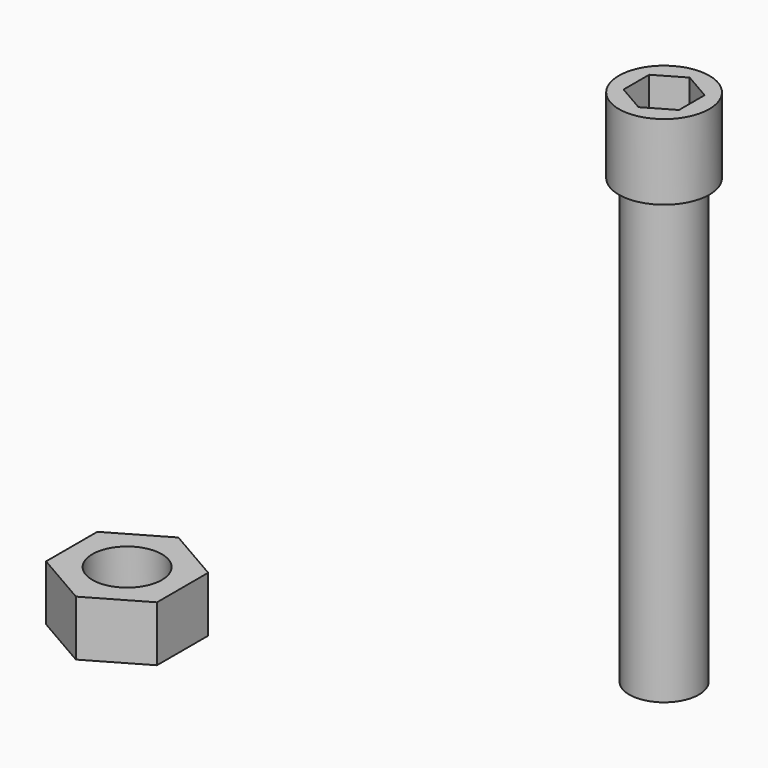
from build123d import *

# Parameters (mm, degrees)
F0_R     = 1.9939
F1_DEPTH = 25.4
F2_R     = 2.5908
F2_R_2   = 1.9939
F3_DEPTH = 4.318
F5_DEPTH = 3.175
F7_DEPTH = 3.175
F8_R     = 1.9939
F9_DEPTH = 6.35


with BuildPart() as f1:
    # F0 (on Top) → F1 (new body)
    with BuildSketch(Plane.XY):
        Circle(F0_R)
    extrude(amount=F1_DEPTH)

    # F2 (on face) → F3 (join)
    with BuildSketch(Plane.XY.offset(25.4)):
        Circle(F2_R)
        Circle(F2_R_2, mode=Mode.SUBTRACT)
        Circle(F2_R_2)
    extrude(amount=F3_DEPTH)

    # F4 (on face) → F5 (cut)
    with BuildSketch(Plane.XY.offset(29.718)):
        Polygon((1.5875, -0.916544), (1.5875, 0.916544), (0, 1.833087), (-1.5875, 0.916544), (-1.5875, -0.916544), (0, -1.833087), align=None)
    extrude(amount=-F5_DEPTH, mode=Mode.SUBTRACT)


with BuildPart() as f7:
    # F6 (on Top) → F7 (new body)
    with BuildSketch(Plane.XY):
        Polygon((-18.708706, -12.917549), (-18.708706, -9.251374), (-21.883706, -7.418287), (-25.058706, -9.251374), (-25.058706, -12.917549), (-21.883706, -14.750636), align=None)
    extrude(amount=F7_DEPTH)

    # F8 (on face) → F9 (cut)
    with BuildSketch(Plane.XY.offset(3.175)):
        with Locations((-21.883706, -11.084462)):
            Circle(F8_R)
    extrude(amount=-F9_DEPTH, mode=Mode.SUBTRACT)


solid = Compound([f1.part, f7.part])
